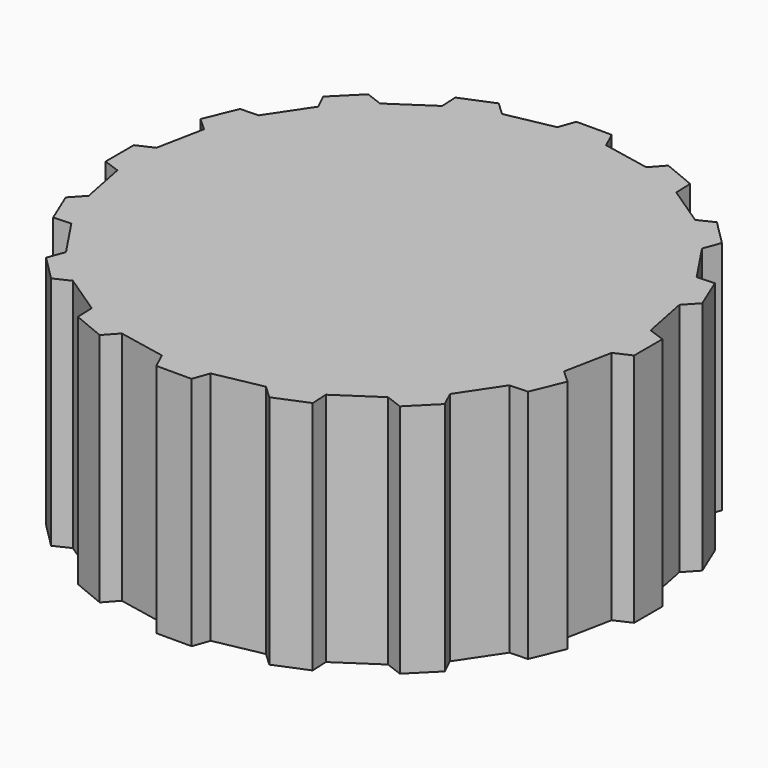
from build123d import *

# Parameters (mm, degrees)
F1_DEPTH = 20


with BuildPart() as f1:
    # F0 (on Top) → F1 (new body)
    with BuildSketch(Plane.XY):
        Polygon((22.4, 1.568319), (21, 2.068319), (21, -2.068319), (22.4, -1.431681), align=None)
        Polygon((21, -2.068319), (21, 2.068319), (20.192982, 6.125474), (18.609959, 9.94723), (16.311765, 13.38672), (13.38672, 16.311765), (9.94723, 18.609959), (6.125474, 20.192982), (2.068319, 21), (-2.068319, 21), (-6.125474, 20.192982), (-9.94723, 18.609959), (-13.38672, 16.311765), (-16.311765, 13.38672), (-18.609959, 9.94723), (-20.192982, 6.125474), (-21, 2.068319), (-21, -2.068319), (-20.192982, -6.125474), (-18.609959, -9.94723), (-16.311765, -13.38672), (-13.38672, -16.311765), (-9.94723, -18.609959), (-6.125474, -20.192982), (-2.068319, -21), (2.068319, -21), (6.125474, -20.192982), (9.94723, -18.609959), (13.38672, -16.311765), (16.311765, -13.38672), (18.609959, -9.94723), (20.192982, -6.125474), align=None)
        Polygon((18.609959, 9.94723), (20.192982, 6.125474), (21.242782, 7.249409), (20.094732, 10.021047), align=None)
        Polygon((21.295071, -7.123171), (20.192982, -6.125474), (18.609959, -9.94723), (20.147021, -9.894809), align=None)
        Polygon((13.38672, 16.311765), (16.311765, 13.38672), (16.851543, 14.826841), (14.730223, 16.948161), align=None)
        Polygon((16.948161, -14.730223), (16.311765, -13.38672), (13.38672, -16.311765), (14.826841, -16.851543), align=None)
        Polygon((6.125474, 20.192982), (9.94723, 18.609959), (9.894809, 20.147021), (7.123171, 21.295071), align=None)
        Polygon((10.021047, -20.094732), (9.94723, -18.609959), (6.125474, -20.192982), (7.249409, -21.242782), align=None)
        Polygon((-2.068319, 21), (2.068319, 21), (1.431681, 22.4), (-1.568319, 22.4), align=None)
        Polygon((1.568319, -22.4), (2.068319, -21), (-2.068319, -21), (-1.431681, -22.4), align=None)
        Polygon((-9.94723, 18.609959), (-6.125474, 20.192982), (-7.249408, 21.242782), (-10.021047, 20.094732), align=None)
        Polygon((-7.123171, -21.295071), (-6.125474, -20.192982), (-9.94723, -18.609959), (-9.894809, -20.147021), align=None)
        Polygon((-16.311765, 13.38672), (-13.38672, 16.311765), (-14.826841, 16.851543), (-16.948161, 14.730223), align=None)
        Polygon((-14.730223, -16.948161), (-13.38672, -16.311765), (-16.311765, -13.38672), (-16.851543, -14.826841), align=None)
        Polygon((-20.192982, 6.125474), (-18.609959, 9.94723), (-20.147021, 9.894809), (-21.295071, 7.123171), align=None)
        Polygon((-20.094732, -10.021047), (-18.609959, -9.94723), (-20.192982, -6.125474), (-21.242782, -7.249408), align=None)
        Polygon((-21, -2.068319), (-21, 2.068319), (-22.4, 1.431681), (-22.4, -1.568319), align=None)
    extrude(amount=F1_DEPTH)


solid = f1.part
